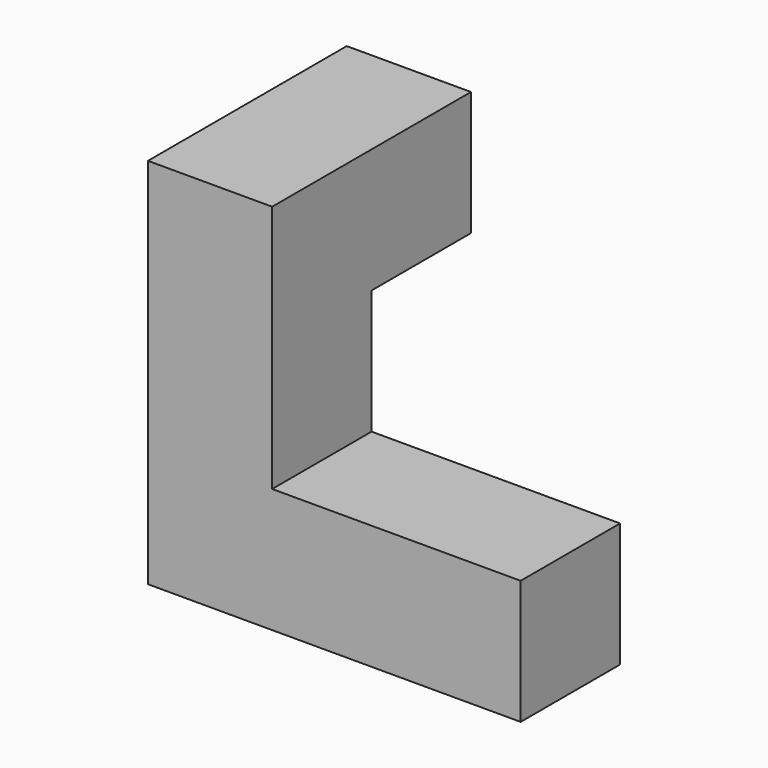
from build123d import *

# Parameters (mm, degrees)
F1_DEPTH = 19.05
F2_W     = 19.05
F2_H     = 19.05
F3_DEPTH = 19.05


with BuildPart() as f1:
    # F0 (on Front) → F1 (new body)
    with BuildSketch(Plane.XZ):
        Polygon((38.1, 0), (0, 0), (0, 38.1), (-19.05, 38.1), (-19.05, -19.05), (38.1, -19.05), align=None)
    extrude(amount=F1_DEPTH)

    # F2 (on face) → F3 (join)
    with BuildSketch(Plane(origin=(0, 0, 0), x_dir=(-1, 0, 0), z_dir=(0, 1, 0))):
        with Locations((9.525, 28.575)):
            Rectangle(F2_W, F2_H)
    extrude(amount=F3_DEPTH)


solid = f1.part
